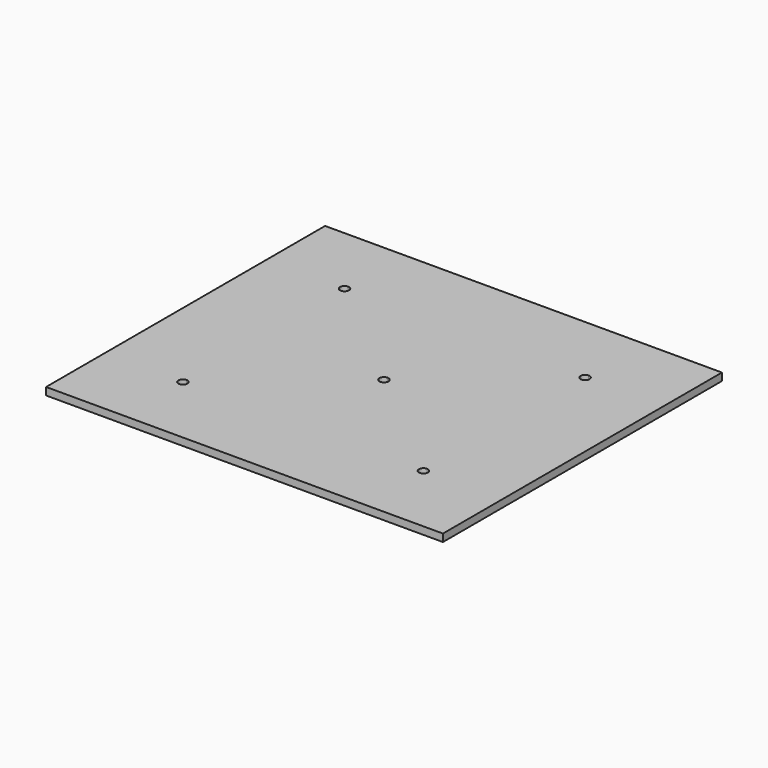
from build123d import *

# Parameters (mm, degrees)
F1_DEPTH = 7.9375


with BuildPart() as f1:
    # F0 (on Top) → F1 (new body)
    with BuildSketch(Plane.XY):
        with BuildLine():
            Line((-131.7625, -106.68), (-209.5669363999, -106.68))
            Line((-209.5669363999, -106.68), (-209.5669363999, -184.1002450228))
            Line((-209.5669363999, -184.1002450228), (-127, -184.1002450228))
            Line((-127, -184.1002450228), (-127, -111.4425))
            ThreePointArc((-127, -111.4425), (-130.3675960454, -110.0475960454), (-131.7625, -106.68))
        make_face()
        with BuildLine():
            Line((-127, -111.4425), (-127, -184.1002450228))
            Line((-127, -184.1002450228), (0, -184.1002450228))
            Line((0, -184.1002450228), (0, -106.68))
            Line((0, -106.68), (-122.2375, -106.68))
            ThreePointArc((-122.2375, -106.68), (-123.6324039546, -110.0475960454), (-127, -111.4425))
        make_face()
        with BuildLine():
            Line((-4.7625, 0), (-127, 0))
            Line((-127, 0), (-127, -101.9175))
            ThreePointArc((-127, -101.9175), (-123.6324039546, -103.3124039546), (-122.2375, -106.68))
            Line((-122.2375, -106.68), (0, -106.68))
            Line((0, -106.68), (0, -4.7625))
            ThreePointArc((0, -4.7625), (-3.3675960454, -3.3675960454), (-4.7625, 0))
        make_face()
        with BuildLine():
            Line((-127, 0), (-209.5669363999, 0))
            Line((-209.5669363999, 0), (-209.5669363999, -106.68))
            Line((-209.5669363999, -106.68), (-131.7625, -106.68))
            ThreePointArc((-131.7625, -106.68), (-130.3675960454, -103.3124039546), (-127, -101.9175))
            Line((-127, -101.9175), (-127, 0))
        make_face()
        with BuildLine():
            Line((-131.7625, 106.68), (-209.5669363999, 106.68))
            Line((-209.5669363999, 106.68), (-209.5669363999, 0))
            Line((-209.5669363999, 0), (-127, 0))
            Line((-127, 0), (-127, 101.9175))
            ThreePointArc((-127, 101.9175), (-130.3675960454, 103.3124039546), (-131.7625, 106.68))
        make_face()
        with BuildLine():
            Line((0, 4.7625), (0, 106.68))
            Line((0, 106.68), (-122.2375, 106.68))
            ThreePointArc((-122.2375, 106.68), (-123.6324039546, 103.3124039546), (-127, 101.9175))
            Line((-127, 101.9175), (-127, 0))
            Line((-127, 0), (-4.7625, 0))
            ThreePointArc((-4.7625, 0), (-3.3675960454, 3.3675960454), (0, 4.7625))
        make_face()
        with BuildLine():
            Line((0, 184.1997549772), (-127, 184.1997549772))
            Line((-127, 184.1997549772), (-127, 111.4425))
            ThreePointArc((-127, 111.4425), (-123.6324039546, 110.0475960454), (-122.2375, 106.68))
            Line((-122.2375, 106.68), (0, 106.68))
            Line((0, 106.68), (0, 184.1997549772))
        make_face()
        with BuildLine():
            Line((-127, 184.1997549772), (-209.5669363999, 184.1997549772))
            Line((-209.5669363999, 184.1997549772), (-209.5669363999, 106.68))
            Line((-209.5669363999, 106.68), (-131.7625, 106.68))
            ThreePointArc((-131.7625, 106.68), (-130.3675960454, 110.0475960454), (-127, 111.4425))
            Line((-127, 111.4425), (-127, 184.1997549772))
        make_face()
        with BuildLine():
            Line((209.5330636001, 184.1997549772), (127, 184.1997549772))
            Line((127, 184.1997549772), (127, 111.4425))
            ThreePointArc((127, 111.4425), (130.3675960454, 110.0475960454), (131.7625, 106.68))
            Line((131.7625, 106.68), (209.5330636001, 106.68))
            Line((209.5330636001, 106.68), (209.5330636001, 184.1997549772))
        make_face()
        with BuildLine():
            Line((127, 184.1997549772), (0, 184.1997549772))
            Line((0, 184.1997549772), (0, 106.68))
            Line((0, 106.68), (122.2375, 106.68))
            ThreePointArc((122.2375, 106.68), (123.6324039546, 110.0475960454), (127, 111.4425))
            Line((127, 111.4425), (127, 184.1997549772))
        make_face()
        with BuildLine():
            Line((122.2375, 106.68), (0, 106.68))
            Line((0, 106.68), (0, 4.7625))
            ThreePointArc((0, 4.7625), (3.3675960454, 3.3675960454), (4.7625, 0))
            Line((4.7625, 0), (127, 0))
            Line((127, 0), (127, 101.9175))
            ThreePointArc((127, 101.9175), (123.6324039546, 103.3124039546), (122.2375, 106.68))
        make_face()
        with BuildLine():
            Line((209.5330636001, 0), (209.5330636001, 106.68))
            Line((209.5330636001, 106.68), (131.7625, 106.68))
            ThreePointArc((131.7625, 106.68), (130.3675960454, 103.3124039546), (127, 101.9175))
            Line((127, 101.9175), (127, 0))
            Line((127, 0), (209.5330636001, 0))
        make_face()
        with BuildLine():
            Line((127, 0), (4.7625, 0))
            ThreePointArc((4.7625, 0), (3.3675960454, -3.3675960454), (0, -4.7625))
            Line((0, -4.7625), (0, -106.68))
            Line((0, -106.68), (122.2375, -106.68))
            ThreePointArc((122.2375, -106.68), (123.6324039546, -103.3124039546), (127, -101.9175))
            Line((127, -101.9175), (127, 0))
        make_face()
        with BuildLine():
            Line((209.5330636001, -106.68), (209.5330636001, 0))
            Line((209.5330636001, 0), (127, 0))
            Line((127, 0), (127, -101.9175))
            ThreePointArc((127, -101.9175), (130.3675960454, -103.3124039546), (131.7625, -106.68))
            Line((131.7625, -106.68), (209.5330636001, -106.68))
        make_face()
        with BuildLine():
            Line((0, -106.68), (0, -184.1002450228))
            Line((0, -184.1002450228), (127, -184.1002450228))
            Line((127, -184.1002450228), (127, -111.4425))
            ThreePointArc((127, -111.4425), (123.6324039546, -110.0475960454), (122.2375, -106.68))
            Line((122.2375, -106.68), (0, -106.68))
        make_face()
        with BuildLine():
            Line((209.5330636001, -184.1002450228), (209.5330636001, -106.68))
            Line((209.5330636001, -106.68), (131.7625, -106.68))
            ThreePointArc((131.7625, -106.68), (130.3675960454, -110.0475960454), (127, -111.4425))
            Line((127, -111.4425), (127, -184.1002450228))
            Line((127, -184.1002450228), (209.5330636001, -184.1002450228))
        make_face()
    extrude(amount=F1_DEPTH)


solid = f1.part
